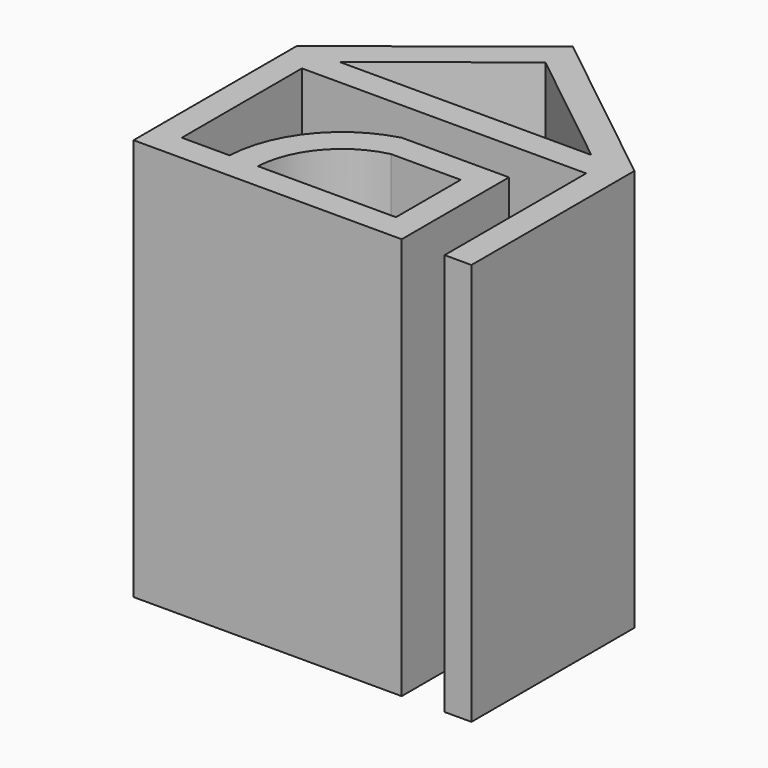
from build123d import *

# Parameters (mm, degrees)
F1_DEPTH = 30


with BuildPart() as f1:
    # F0 (on Top) → F1 (new body)
    with BuildSketch(Plane.XY):
        with BuildLine():
            Line((8.803684, -1.83328), (0.807487, -1.83328))
            ThreePointArc((0.807487, -1.83328), (-3.712804, -4.786142), (-5.630828, -9.83328))
            Line((-5.630828, -9.83328), (-9.196316, -9.83328))
            Line((-9.196316, -9.83328), (-9.196316, 1.36672))
            Line((-9.196316, 1.36672), (12.003684, 1.36672))
            Line((12.003684, 1.36672), (12.003684, -11.83328))
            Line((12.003684, -11.83328), (14.003684, -11.83328))
            Line((14.003684, -11.83328), (14.003684, 3.36672))
            Line((14.003684, 3.36672), (1.403684, 13.36672))
            Line((1.403684, 13.36672), (-11.196316, 3.36672))
            Line((-11.196316, 3.36672), (-11.196316, -11.83328))
            Line((-11.196316, -11.83328), (8.803684, -11.83328))
            Line((8.803684, -11.83328), (8.803684, -1.83328))
        make_face()
        with BuildLine():
            ThreePointArc((-3.494995, -9.869729), (-1.948741, -6.002088), (1.607355, -3.83328))
            Line((1.607355, -3.83328), (6.803684, -3.83328))
            Line((6.803684, -3.83328), (6.803684, -9.869729))
            Line((6.803684, -9.869729), (-3.494995, -9.869729))
        make_face(mode=Mode.SUBTRACT)
        Polygon((-7.979112, 3.36672), (1.403684, 10.813384), (10.78648, 3.36672), align=None, mode=Mode.SUBTRACT)
    extrude(amount=F1_DEPTH)


solid = f1.part
